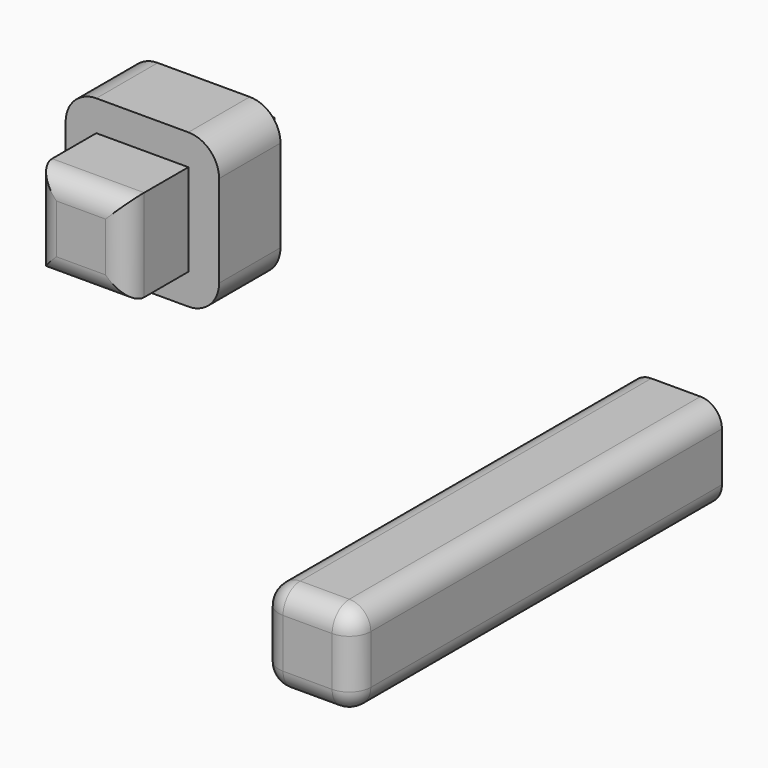
from build123d import *

# Parameters (mm, degrees)
F1_DEPTH      = 7.62
F2_R          = 1.778
F3_W          = 7.62
F3_H          = 7.62
F4_DEPTH      = 7.62
F3_W_2        = 12.7
F3_H_2        = 12.7
F5_DEPTH      = 5.08
F5_DEPTH_BACK = 1.27
F6_R          = 2.54
F7_R          = 1.778


with BuildPart() as f1:
    # F0 (on Top) → F1 (new body)
    with BuildSketch(Plane.XY):
        Polygon((0, 0), (0, 19.05), (-3.81, 19.05), (-3.81, -19.05), (0, -19.05), align=None)
        Polygon((3.81, -19.05), (3.81, 19.05), (0, 19.05), (0, 0), (0, -19.05), align=None)
    extrude(amount=F1_DEPTH)

    # F2
    f2_edges = [f1.edges().sort_by_distance(p)[0] for p in [
        (-3.81, 0, 7.62),
        (-3.81, 0, 0),
        (3.81, 0, 7.62),
        (3.81, 0, 0),
        (-3.81, -19.05, 3.81),
        (0, -19.05, 0),
        (0, -19.05, 7.62),
        (3.81, -19.05, 3.81),
    ]]
    fillet(f2_edges, radius=F2_R)


with BuildPart() as f4:
    # F3 (on Front) → F4 (new body, symmetric)
    with BuildSketch(Plane.XZ):
        with Locations((-27.8999991715, 20.2879599677)):
            Rectangle(F3_W, F3_H)
    extrude(amount=F4_DEPTH, both=True)

    # F3 (on Front) → F5 (join, two sides)
    with BuildSketch(Plane.XZ) as f5_sk:
        with Locations((-27.8999991715, 20.2879599677)):
            Rectangle(F3_W_2, F3_H_2)
        with Locations((-27.8999991715, 20.2879599677)):
            Rectangle(F3_W, F3_H, mode=Mode.SUBTRACT)
    extrude(amount=-F5_DEPTH)
    extrude(f5_sk.sketch, amount=F5_DEPTH_BACK)

    # F6
    f6_edges = [f4.edges().sort_by_distance(p)[0] for p in [
        (-34.249999, 1.905, 26.63796),
        (-21.549999, 1.905, 26.63796),
        (-34.249999, 1.905, 13.93796),
        (-21.549999, 1.905, 13.93796),
    ]]
    fillet(f6_edges, radius=F6_R)

    # F7
    f7_edges = [f4.edges().sort_by_distance(p)[0] for p in [
        (-24.089999, -7.62, 20.28796),
        (-31.709999, -7.62, 20.28796),
        (-27.899999, -7.62, 16.47796),
        (-27.899999, -7.62, 24.09796),
    ]]
    fillet(f7_edges, radius=F7_R)


solid = Compound([f1.part, f4.part])
